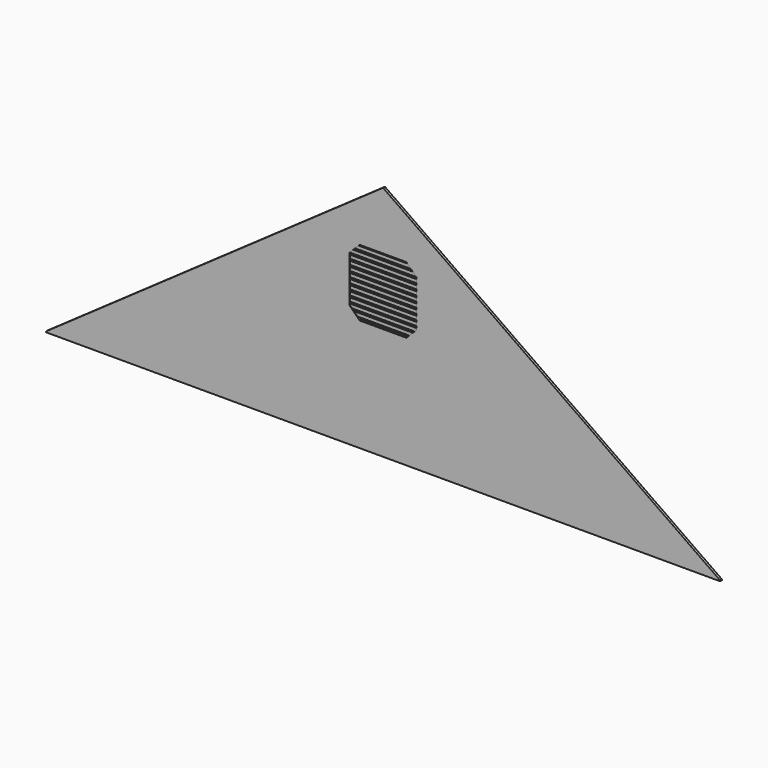
from build123d import *

# Parameters (mm, degrees)
F1_DEPTH = 12.7
F3_DEPTH = 89.662
F4_W     = 609.6
F4_H     = 19.05
F5_DEPTH = 10.16


with BuildPart() as f1:
    # F0 (on Front) → F1 (new body)
    with BuildSketch(Plane.XZ):
        Polygon((0, 4.497254), (0, 0), (1828.8, 0), (1828.8, 1285.0368), align=None)
        Polygon((1828.8, 1285.0368), (1828.8, 0), (3657.6, 0), (3657.6, 4.497254), align=None)
    extrude(amount=F1_DEPTH)

    # F2 (on face) → F3 (cut)
    with BuildSketch(Plane.XZ.offset(12.7)):
        Polygon((1647.918463, 917.481537), (1647.918463, 790.481537), (2009.681537, 790.481537), (2009.681537, 917.481537), (1955.8, 971.363073), (1701.8, 971.363073), align=None)
        Polygon((1647.918463, 663.481537), (1701.8, 609.6), (1955.8, 609.6), (2009.681537, 663.481537), (2009.681537, 790.481537), (1647.918463, 790.481537), align=None)
    extrude(amount=-F3_DEPTH, mode=Mode.SUBTRACT)

    # F4 (on Front) → F5 (join)
    with BuildSketch(Plane.XZ):
        with Locations((1828.8, 954.617365)):
            Rectangle(F4_W, F4_H)
        with Locations((1828.8, 925.407365)):
            Rectangle(F4_W, F4_H)
        with Locations((1828.8, 896.197365)):
            Rectangle(F4_W, F4_H)
        with Locations((1828.8, 866.987365)):
            Rectangle(F4_W, F4_H)
        with Locations((1828.8, 837.777365)):
            Rectangle(F4_W, F4_H)
        with Locations((1828.8, 808.567365)):
            Rectangle(F4_W, F4_H)
        with Locations((1828.8, 779.357365)):
            Rectangle(F4_W, F4_H)
        with Locations((1828.8, 750.147365)):
            Rectangle(F4_W, F4_H)
        with Locations((1828.8, 720.937365)):
            Rectangle(F4_W, F4_H)
        with Locations((1828.8, 691.727365)):
            Rectangle(F4_W, F4_H)
        with Locations((1828.8, 662.517365)):
            Rectangle(F4_W, F4_H)
        with Locations((1828.8, 633.307365)):
            Rectangle(F4_W, F4_H)
        with Locations((1828.8, 604.097365)):
            Rectangle(F4_W, F4_H)
        with Locations((1828.8, 574.887365)):
            Rectangle(F4_W, F4_H)
    extrude(amount=F5_DEPTH)


solid = f1.part
